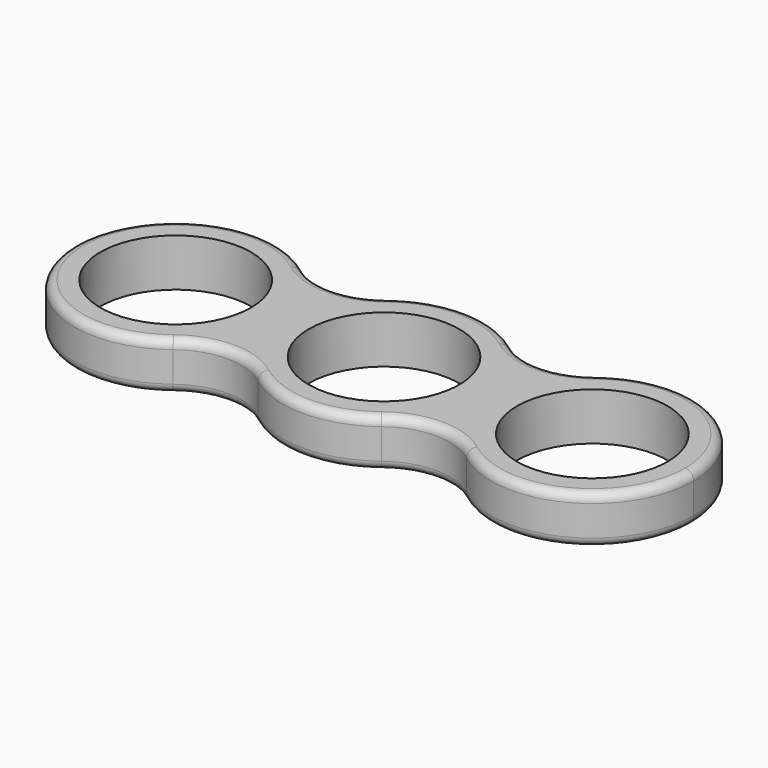
from build123d import *

# Parameters (mm, degrees)
F0_R     = 11.0109
F1_DEPTH = 6.985
F2_R     = 1.27
F3_R     = 1.27


with BuildPart() as f1:
    # F0 (on Top) → F1 (new body)
    with BuildSketch(Plane.XY):
        with BuildLine():
            Line((14.8209, 0), (11.0109, 0))
            ThreePointArc((11.0109, 0), (0, -11.0109), (-11.0109, 0))
            Line((-11.0109, 0), (-14.8209, 0))
            ThreePointArc((-14.8209, 0), (-13.2978500338, -6.5441776634), (-9.0417285206, -11.7433479966))
            ThreePointArc((-9.0417285206, -11.7433479966), (0, -14.8209), (9.0417285206, -11.7433479966))
            ThreePointArc((9.0417285206, -11.7433479966), (13.2978500338, -6.5441776634), (14.8209, 0))
        make_face()
        with BuildLine():
            ThreePointArc((-11.0109, 0), (0, 11.0109), (11.0109, 0))
            Line((11.0109, 0), (14.8209, 0))
            ThreePointArc((14.8209, 0), (13.2978500338, 6.5441776634), (9.0417285206, 11.7433479966))
            ThreePointArc((9.0417285206, 11.7433479966), (0, 14.8209), (-9.0417285206, 11.7433479966))
            ThreePointArc((-9.0417285206, 11.7433479966), (-13.2978500338, 6.5441776634), (-14.8209, 0))
            Line((-14.8209, 0), (-11.0109, 0))
        make_face()
        with BuildLine():
            ThreePointArc((9.0417285206, 11.7433479966), (13.2978500338, 6.5441776634), (14.8209, 0))
            Line((14.8209, 0), (15.6591, 0))
            ThreePointArc((15.6591, 0), (17.1821499662, 6.5441776634), (21.4382714794, 11.7433479966))
            ThreePointArc((21.4382714794, 11.7433479966), (15.24, 9.6336293996), (9.0417285206, 11.7433479966))
        make_face()
        with BuildLine():
            Line((15.6591, 0), (14.8209, 0))
            ThreePointArc((14.8209, 0), (13.2978500338, -6.5441776634), (9.0417285206, -11.7433479966))
            ThreePointArc((9.0417285206, -11.7433479966), (15.24, -9.6336293996), (21.4382714794, -11.7433479966))
            ThreePointArc((21.4382714794, -11.7433479966), (17.1821499662, -6.5441776634), (15.6591, 0))
        make_face()
        with BuildLine():
            ThreePointArc((-9.0417285206, -11.7433479966), (-13.2978500338, -6.5441776634), (-14.8209, 0))
            Line((-14.8209, 0), (-15.6591, 0))
            ThreePointArc((-15.6591, 0), (-17.1821499662, -6.5441776634), (-21.4382714794, -11.7433479966))
            ThreePointArc((-21.4382714794, -11.7433479966), (-15.24, -9.6336293996), (-9.0417285206, -11.7433479966))
        make_face()
        with BuildLine():
            Line((-15.6591, 0), (-14.8209, 0))
            ThreePointArc((-14.8209, 0), (-13.2978500338, 6.5441776634), (-9.0417285206, 11.7433479966))
            ThreePointArc((-9.0417285206, 11.7433479966), (-15.24, 9.6336293996), (-21.4382714794, 11.7433479966))
            ThreePointArc((-21.4382714794, 11.7433479966), (-17.1821499662, 6.5441776634), (-15.6591, 0))
        make_face()
        with BuildLine():
            ThreePointArc((21.4382714794, 11.7433479966), (17.1821499662, 6.5441776634), (15.6591, 0))
            ThreePointArc((15.6591, 0), (17.1821499662, -6.5441776634), (21.4382714794, -11.7433479966))
            ThreePointArc((21.4382714794, -11.7433479966), (37.0241776634, -13.2978500338), (45.3009, 0))
            ThreePointArc((45.3009, 0), (37.0241776634, 13.2978500338), (21.4382714794, 11.7433479966))
        make_face()
        with BuildLine():
            ThreePointArc((41.4909, 0), (30.48, -11.0109), (19.4691, 0))
            ThreePointArc((19.4691, 0), (30.48, 11.0109), (41.4909, 0))
        make_face(mode=Mode.SUBTRACT)
        with BuildLine():
            ThreePointArc((-21.4382714794, -11.7433479966), (-17.1821499662, -6.5441776634), (-15.6591, 0))
            ThreePointArc((-15.6591, 0), (-17.1821499662, 6.5441776634), (-21.4382714794, 11.7433479966))
            ThreePointArc((-21.4382714794, 11.7433479966), (-45.3009, 0), (-21.4382714794, -11.7433479966))
        make_face()
        with Locations((-30.48, 0)):
            Circle(F0_R, mode=Mode.SUBTRACT)
    extrude(amount=F1_DEPTH)

    # F2
    f2_edges = [f1.edges().sort_by_distance(p)[0] for p in [
        (-21.438271, -11.743348, 3.4925),
        (-15.24, 9.633629, 6.985),
    ]]
    fillet(f2_edges, radius=F2_R)

    # F3
    f3_edges = [f1.edges().sort_by_distance(p)[0] for p in [
        (0, -14.8209, 0),
    ]]
    fillet(f3_edges, radius=F3_R)


solid = f1.part
